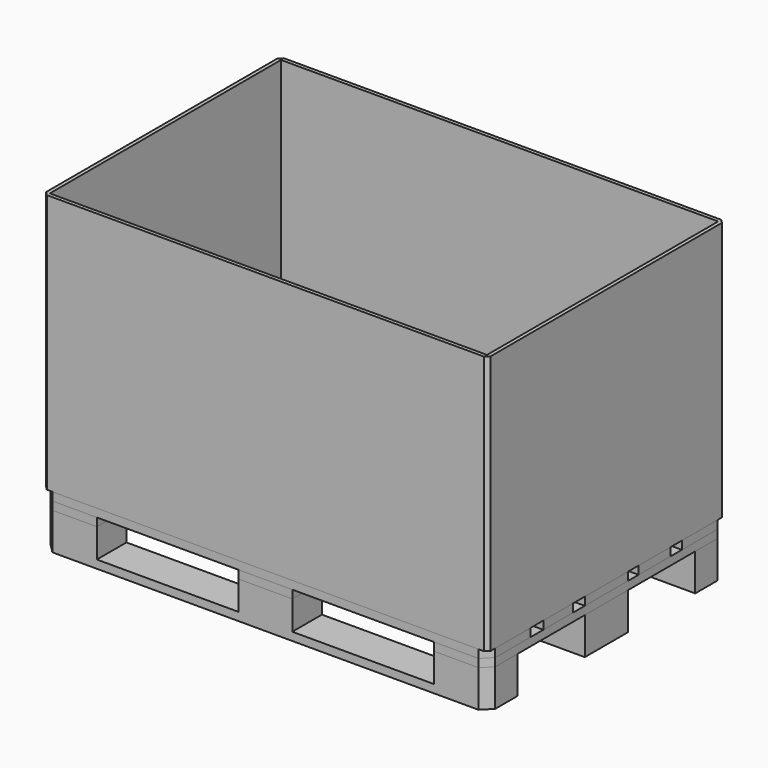
from build123d import *

# Parameters (mm, degrees)
F0_W       = 1200
F0_H       = 100
F1_DEPTH   = 22
F0_H_2     = 72.5
F2_W       = 145
F2_H       = 100
F2_W_2     = 72.5
F3_DEPTH   = 78
F4_W       = 145
F4_H       = 145
F5_DEPTH   = 78
F6_W       = 145
F6_H       = 100
F7_DEPTH   = 78
F8_W       = 145
F8_H       = 800
F9_DEPTH   = 22
F10_W      = 145
F10_H      = 800
F11_DEPTH  = 22
F12_W      = 145
F12_H      = 800
F13_DEPTH  = 22
F14_W      = 1200
F14_H      = 145
F15_DEPTH  = 22
F16_W      = 1200
F16_H      = 145
F17_DEPTH  = 22
F18_W      = 1200
F18_H      = 145
F19_DEPTH  = 22
F20_W      = 1200
F20_H      = 107.1627608397
F21_DEPTH  = 22
F22_W      = 1200
F22_H      = 100
F23_DEPTH  = 22
F24_SIZE   = 25
F24_2_SIZE = 25
F24_3_SIZE = 25
F24_4_SIZE = 25
F24_5_SIZE = 25
F24_6_SIZE = 25
F26_DEPTH  = 700
F27_SIZE   = 10


with BuildPart() as f1:
    # F0 (on Top) → F1 (new body)
    with BuildSketch(Plane.XY):
        with Locations((0, 350)):
            Rectangle(F0_W, F0_H)
    extrude(amount=F1_DEPTH)

    # F2 (on face) → F3 (join)
    with BuildSketch(Plane.XY.offset(22)):
        with Locations((-527.5, 350)):
            Rectangle(F2_W, F2_H)
        with Locations((-36.25, 350)):
            Rectangle(F2_W_2, F2_H)
        with Locations((36.25, 350)):
            Rectangle(F2_W_2, F2_H)
        with Locations((527.5, 350)):
            Rectangle(F2_W, F2_H)
    extrude(amount=F3_DEPTH)

    # F24#6
    f24_6_edges = [f1.edges().sort_by_distance(p)[0] for p in [
        (600, 400, 50),
        (-600, 400, 50),
    ]]
    chamfer(f24_6_edges, length=F24_6_SIZE)


with BuildPart() as f1b:
    # F0 (on Top) → F1, piece 2 (new body)
    with BuildSketch(Plane.XY):
        with Locations((0, 36.25)):
            Rectangle(F0_W, F0_H_2)
        with Locations((0, -36.25)):
            Rectangle(F0_W, F0_H_2)
    extrude(amount=F1_DEPTH)

    # F4 (on face) → F5 (join)
    with BuildSketch(Plane.XY.offset(22)):
        with Locations((-527.5, 0)):
            Rectangle(F4_W, F4_H)
        Rectangle(F4_W, F4_H)
        with Locations((527.5, 0)):
            Rectangle(F4_W, F4_H)
    extrude(amount=F5_DEPTH)


with BuildPart() as f1c:
    # F0 (on Top) → F1, piece 3 (new body)
    with BuildSketch(Plane.XY):
        with Locations((0, -350)):
            Rectangle(F0_W, F0_H)
    extrude(amount=F1_DEPTH)

    # F6 (on face) → F7 (join)
    with BuildSketch(Plane.XY.offset(22)):
        with Locations((-527.5, -350)):
            Rectangle(F6_W, F6_H)
        with Locations((0, -350)):
            Rectangle(F6_W, F6_H)
        with Locations((527.5, -350)):
            Rectangle(F6_W, F6_H)
    extrude(amount=F7_DEPTH)

    # F24#3
    f24_3_edges = [f1c.edges().sort_by_distance(p)[0] for p in [
        (-600, -400, 50),
        (600, -400, 50),
    ]]
    chamfer(f24_3_edges, length=F24_3_SIZE)


with BuildPart() as f9:
    # F8 (on face) → F9 (new body)
    with BuildSketch(Plane.XY.offset(100)):
        with Locations((-527.5, 0)):
            Rectangle(F8_W, F8_H)
    extrude(amount=F9_DEPTH)

    # F24#2
    f24_2_edges = [f9.edges().sort_by_distance(p)[0] for p in [
        (-600, -400, 111),
        (-600, 400, 111),
    ]]
    chamfer(f24_2_edges, length=F24_2_SIZE)


with BuildPart() as f11:
    # F10 (on face) → F11 (new body)
    with BuildSketch(Plane.XY.offset(100)):
        Rectangle(F10_W, F10_H)
    extrude(amount=F11_DEPTH)


with BuildPart() as f13:
    # F12 (on face) → F13 (new body)
    with BuildSketch(Plane.XY.offset(100)):
        with Locations((527.5, 0)):
            Rectangle(F12_W, F12_H)
    extrude(amount=F13_DEPTH)

    # F24#4
    f24_4_edges = [f13.edges().sort_by_distance(p)[0] for p in [
        (600, -400, 111),
        (600, 400, 111),
    ]]
    chamfer(f24_4_edges, length=F24_4_SIZE)


with BuildPart() as f15:
    # F14 (on face) → F15 (new body)
    with BuildSketch(Plane.XY.offset(122)):
        with Locations((0, 327.5)):
            Rectangle(F14_W, F14_H)
    extrude(amount=F15_DEPTH)

    # F24#5
    f24_5_edges = [f15.edges().sort_by_distance(p)[0] for p in [
        (600, 400, 133),
        (-600, 400, 133),
    ]]
    chamfer(f24_5_edges, length=F24_5_SIZE)


with BuildPart() as f17:
    # F16 (on face) → F17 (new body)
    with BuildSketch(Plane.XY.offset(122)):
        Rectangle(F16_W, F16_H)
    extrude(amount=F17_DEPTH)


with BuildPart() as f19:
    # F18 (on face) → F19 (new body)
    with BuildSketch(Plane.XY.offset(122)):
        with Locations((0, -327.5)):
            Rectangle(F18_W, F18_H)
    extrude(amount=F19_DEPTH)

    # F24
    f24_edges = [f19.edges().sort_by_distance(p)[0] for p in [
        (-600, -400, 133),
        (600, -400, 133),
    ]]
    chamfer(f24_edges, length=F24_SIZE)


with BuildPart() as f21:
    # F20 (on face) → F21 (new body)
    with BuildSketch(Plane.XY.offset(122)):
        with Locations((0, 162.5)):
            Rectangle(F20_W, F20_H)
    extrude(amount=F21_DEPTH)


with BuildPart() as f23:
    # F22 (on face) → F23 (new body)
    with BuildSketch(Plane.XY.offset(122)):
        with Locations((0, -162.5)):
            Rectangle(F22_W, F22_H)
    extrude(amount=F23_DEPTH)


with BuildPart() as f26:
    # F25 (on face) → F26 (new body)
    with BuildSketch(Plane.XY.offset(144)):
        Polygon((575, 400), (-575, 400), (-585, 390), (585, 390), align=None)
        Polygon((-575, 400), (-600, 400), (-600, 375), (-590, 385), (-590, 390), (-585, 390), align=None)
        Polygon((-590, 385), (-600, 375), (-600, 255), (-590, 255), align=None)
        Polygon((600.0311231613, 400), (575, 400), (585, 390), (590.0311231613, 390), (590.0311231613, 384.9688768387), (600, 375), (600, 255), (590.0311231613, 255), (590.0311231613, -390.0209569931), (-590, -390.0209569931), (-590, 255), (-600, 255), (-600, -400.0209569931), (600.0311231613, -400.0209569931), align=None)
        Polygon((600, 375), (590.0311231613, 384.9688768387), (590.0311231613, 255), (600, 255), align=None)
    extrude(amount=F26_DEPTH)

    # F27
    f27_edges = [f26.edges().sort_by_distance(p)[0] for p in [
        (600.031123, -400.020957, 494),
        (-600, -400.020957, 494),
        (-600, 400, 494),
        (600.031123, 400, 494),
    ]]
    chamfer(f27_edges, length=F27_SIZE)


solid = Compound([f1.part, f1b.part, f1c.part, f9.part, f11.part, f13.part, f15.part, f17.part, f19.part, f21.part, f23.part, f26.part])
